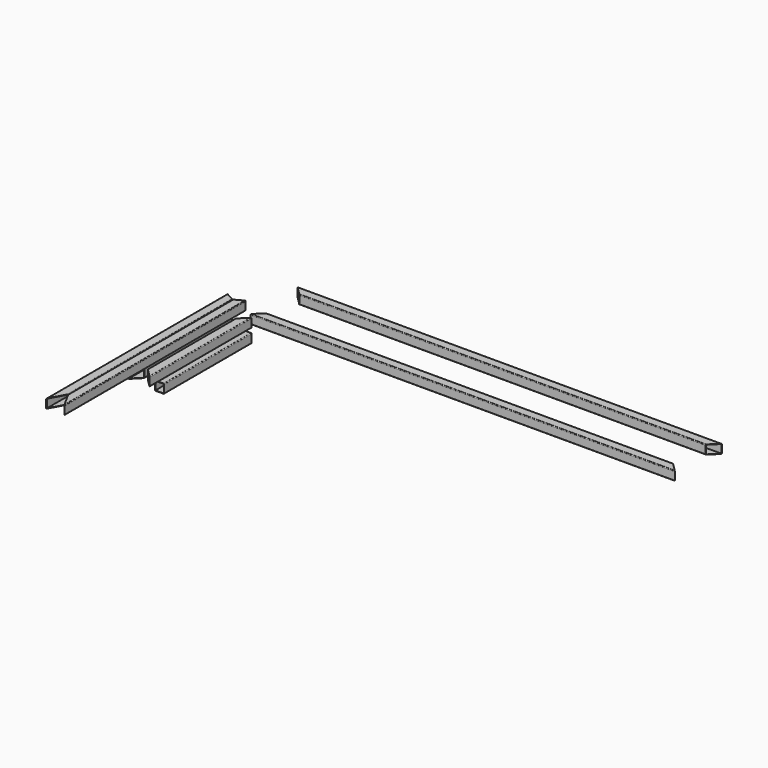
from build123d import *

# Parameters (mm, degrees)
F0_W      = 46
F0_H      = 46
F1_DEPTH  = 700
F2_W      = 46
F2_H      = 46
F3_DEPTH  = 700
F5_DEPTH  = 50.001
F7_DEPTH  = 50.2400823502
F8_W      = 46
F8_H      = 46
F10_DEPTH = 2330
F9_W      = 46
F9_H      = 46
F11_DEPTH = 2330
F13_DEPTH = 50.2400823502
F15_DEPTH = 50.2400823502
F16_W     = 46
F16_H     = 46
F17_DEPTH = 600
F18_W     = 46
F18_H     = 46
F20_DEPTH = 1244.227
F19_W     = 46
F19_H     = 46
F21_DEPTH = 1244.227
F23_DEPTH = 197.0386737416


with BuildPart() as f1:
    # F0 (on Front) → F1 (new body)
    with BuildSketch(Plane.XZ):
        with BuildLine():
            ThreePointArc((25, 21), (23.8284271247, 23.8284271247), (21, 25))
            Line((21, 25), (-21, 25))
            ThreePointArc((-21, 25), (-23.8284271247, 23.8284271247), (-25, 21))
            Line((-25, 21), (-25, -21))
            ThreePointArc((-25, -21), (-23.8284271247, -23.8284271247), (-21, -25))
            Line((-21, -25), (21, -25))
            ThreePointArc((21, -25), (23.8284271247, -23.8284271247), (25, -21))
            Line((25, -21), (25, 21))
        make_face()
        Rectangle(F0_W, F0_H, mode=Mode.SUBTRACT)
    extrude(amount=F1_DEPTH)

    # F4 (on face) → F5 (cut, through all)
    with BuildSketch(Plane.XY.offset(25)):
        Polygon((-25, 0), (-25, -50), (-21, -46), (-21, 0), align=None)
        Polygon((-21, 0), (-21, -46), (21, -4), (21, 0), align=None)
        Polygon((21, 0), (21, -4), (25, 0), align=None)
        Polygon((-25, -650), (-25, -700), (-21, -700), (-21, -654), align=None)
        Polygon((-21, -654), (-21, -700), (21, -700), (21, -696), align=None)
        Polygon((21, -696), (21, -700), (25, -700), align=None)
    extrude(amount=-F5_DEPTH, mode=Mode.SUBTRACT)


with BuildPart() as f3:
    # F2 (on Front) → F3 (new body)
    with BuildSketch(Plane.XZ):
        with BuildLine():
            ThreePointArc((-42.1039521694, 21.2390823502), (-43.2755250447, 24.0675094749), (-46.1039521694, 25.2390823502))
            Line((-46.1039521694, 25.2390823502), (-88.1039521694, 25.2390823502))
            ThreePointArc((-88.1039521694, 25.2390823502), (-90.9323792942, 24.0675094749), (-92.1039521694, 21.2390823502))
            Line((-92.1039521694, 21.2390823502), (-92.1039521694, -20.7609176498))
            ThreePointArc((-92.1039521694, -20.7609176498), (-90.9323792942, -23.5893447746), (-88.1039521694, -24.7609176498))
            Line((-88.1039521694, -24.7609176498), (-46.1039521694, -24.7609176498))
            ThreePointArc((-46.1039521694, -24.7609176498), (-43.2755250447, -23.5893447746), (-42.1039521694, -20.7609176498))
            Line((-42.1039521694, -20.7609176498), (-42.1039521694, 21.2390823502))
        make_face()
        with Locations((-67.1039521694, 0.2390823502)):
            Rectangle(F2_W, F2_H, mode=Mode.SUBTRACT)
    extrude(amount=F3_DEPTH)

    # F6 (on face) → F7 (cut, through all)
    with BuildSketch(Plane.XY.offset(25.2390823502)):
        Polygon((-88.1039521694, 0), (-92.1039521694, 0), (-88.1039521694, -4), align=None)
        Polygon((-46.1039521694, 0), (-88.1039521694, 0), (-88.1039521694, -4), (-46.1039521694, -46), align=None)
        Polygon((-42.1039521694, 0), (-46.1039521694, 0), (-46.1039521694, -46), (-42.1039521694, -50), align=None)
        Polygon((-46.1039521694, -654), (-46.1039521694, -700), (-42.1039521694, -700), (-42.1039521694, -650), align=None)
        Polygon((-88.1039521694, -696), (-88.1039521694, -700), (-46.1039521694, -700), (-46.1039521694, -654), align=None)
        Polygon((-88.1039521694, -696), (-92.1039521694, -700), (-88.1039521694, -700), align=None)
    extrude(amount=-F7_DEPTH, mode=Mode.SUBTRACT)


with BuildPart() as f10:
    # F8 (on Right) → F10 (new body)
    with BuildSketch(Plane.YZ):
        with BuildLine():
            Line((300.6890394688, -25), (342.6890394688, -25))
            ThreePointArc((342.6890394688, -25), (345.5174665935, -23.8284271247), (346.6890394688, -21))
            Line((346.6890394688, -21), (346.6890394688, 21))
            ThreePointArc((346.6890394688, 21), (345.5174665935, 23.8284271247), (342.6890394688, 25))
            Line((342.6890394688, 25), (300.6890394688, 25))
            ThreePointArc((300.6890394688, 25), (297.860612344, 23.8284271247), (296.6890394688, 21))
            Line((296.6890394688, 21), (296.6890394688, -21))
            ThreePointArc((296.6890394688, -21), (297.860612344, -23.8284271247), (300.6890394688, -25))
        make_face()
        with Locations((321.6890394688, 0)):
            Rectangle(F8_W, F8_H, mode=Mode.SUBTRACT)
    extrude(amount=F10_DEPTH)

    # F14 (on face) → F15 (cut, through all)
    with BuildSketch(Plane(origin=(0, 0, -25), x_dir=(1, 0, 0), z_dir=(0, 0, -1))):
        Polygon((2326, -342.6890394688), (2330, -346.6890394688), (2330, -342.6890394688), align=None)
        Polygon((2326, -342.6890394688), (2330, -342.6890394688), (2330, -300.6890394688), (2284, -300.6890394688), align=None)
        Polygon((2284, -300.6890394688), (2330, -300.6890394688), (2330, -296.6890394688), (2280, -296.6890394688), align=None)
        Polygon((0, -296.6890394688), (0, -300.6890394688), (46, -300.6890394688), (50, -296.6890394688), align=None)
        Polygon((0, -300.6890394688), (0, -342.6890394688), (4, -342.6890394688), (46, -300.6890394688), align=None)
        Polygon((0, -342.6890394688), (0, -346.6890394688), (4, -342.6890394688), align=None)
    extrude(amount=-F15_DEPTH, mode=Mode.SUBTRACT)


with BuildPart() as f11:
    # F9 (on Right) → F11 (new body)
    with BuildSketch(Plane.YZ):
        with BuildLine():
            Line((27.1510125101, -25), (69.1510125101, -25))
            ThreePointArc((69.1510125101, -25), (71.9794396348, -23.8284271247), (73.1510125101, -21))
            Line((73.1510125101, -21), (73.1510125101, 21))
            ThreePointArc((73.1510125101, 21), (71.9794396348, 23.8284271247), (69.1510125101, 25))
            Line((69.1510125101, 25), (27.1510125101, 25))
            ThreePointArc((27.1510125101, 25), (24.3225853853, 23.8284271247), (23.1510125101, 21))
            Line((23.1510125101, 21), (23.1510125101, -21))
            ThreePointArc((23.1510125101, -21), (24.3225853853, -23.8284271247), (27.1510125101, -25))
        make_face()
        with Locations((48.1510125101, 0)):
            Rectangle(F9_W, F9_H, mode=Mode.SUBTRACT)
    extrude(amount=F11_DEPTH)

    # F12 (on face) → F13 (cut, through all)
    with BuildSketch(Plane(origin=(0, 0, -25), x_dir=(1, 0, 0), z_dir=(0, 0, -1))):
        Polygon((2280, -73.1510125101), (2330, -73.1510125101), (2330, -69.1510125101), (2284, -69.1510125101), align=None)
        Polygon((2284, -69.1510125101), (2330, -69.1510125101), (2330, -27.1510125101), (2326, -27.1510125101), align=None)
        Polygon((2326, -27.1510125101), (2330, -27.1510125101), (2330, -23.1510125101), align=None)
        Polygon((0, -73.1510125101), (50, -73.1510125101), (46, -69.1510125101), (0, -69.1510125101), align=None)
        Polygon((0, -69.1510125101), (46, -69.1510125101), (4, -27.1510125101), (0, -27.1510125101), align=None)
        Polygon((0, -27.1510125101), (4, -27.1510125101), (0, -23.1510125101), align=None)
    extrude(amount=-F13_DEPTH, mode=Mode.SUBTRACT)


with BuildPart() as f17:
    # F16 (on Front) → F17 (new body)
    with BuildSketch(Plane.XZ):
        with BuildLine():
            ThreePointArc((25.253039645, -53.9547965825), (24.0814667698, -51.1263694577), (21.253039645, -49.9547965825))
            Line((21.253039645, -49.9547965825), (-20.746960355, -49.9547965825))
            ThreePointArc((-20.746960355, -49.9547965825), (-23.5753874797, -51.1263694577), (-24.746960355, -53.9547965825))
            Line((-24.746960355, -53.9547965825), (-24.746960355, -95.9547965825))
            ThreePointArc((-24.746960355, -95.9547965825), (-23.5753874797, -98.7832237072), (-20.746960355, -99.9547965825))
            Line((-20.746960355, -99.9547965825), (21.253039645, -99.9547965825))
            ThreePointArc((21.253039645, -99.9547965825), (24.0814667698, -98.7832237072), (25.253039645, -95.9547965825))
            Line((25.253039645, -95.9547965825), (25.253039645, -53.9547965825))
        make_face()
        with Locations((0.253039645, -74.9547965825)):
            Rectangle(F16_W, F16_H, mode=Mode.SUBTRACT)
    extrude(amount=F17_DEPTH)


with BuildPart() as f20:
    # F18 (on Front) → F20 (new body)
    with BuildSketch(Plane.XZ):
        with BuildLine():
            ThreePointArc((64.6687351167, 93.0828771591), (63.4971622415, 95.9113042839), (60.6687351167, 97.0828771591))
            Line((60.6687351167, 97.0828771591), (18.6687351167, 97.0828771591))
            ThreePointArc((18.6687351167, 97.0828771591), (15.840307992, 95.9113042839), (14.6687351167, 93.0828771591))
            Line((14.6687351167, 93.0828771591), (14.6687351167, 51.0828771591))
            ThreePointArc((14.6687351167, 51.0828771591), (15.840307992, 48.2544500344), (18.6687351167, 47.0828771591))
            Line((18.6687351167, 47.0828771591), (60.6687351167, 47.0828771591))
            ThreePointArc((60.6687351167, 47.0828771591), (63.4971622415, 48.2544500344), (64.6687351167, 51.0828771591))
            Line((64.6687351167, 51.0828771591), (64.6687351167, 93.0828771591))
        make_face()
        with Locations((39.6687351167, 72.0828771591)):
            Rectangle(F18_W, F18_H, mode=Mode.SUBTRACT)
    extrude(amount=F20_DEPTH)


with BuildPart() as f21:
    # F19 (on Front) → F21 (new body)
    with BuildSketch(Plane.XZ):
        with BuildLine():
            ThreePointArc((-7.8771844506, 93.0828771591), (-9.0487573259, 95.9113042839), (-11.8771844506, 97.0828771591))
            Line((-11.8771844506, 97.0828771591), (-53.8771844506, 97.0828771591))
            ThreePointArc((-53.8771844506, 97.0828771591), (-56.7056115754, 95.9113042839), (-57.8771844506, 93.0828771591))
            Line((-57.8771844506, 93.0828771591), (-57.8771844506, 51.0828771591))
            ThreePointArc((-57.8771844506, 51.0828771591), (-56.7056115754, 48.2544500344), (-53.8771844506, 47.0828771591))
            Line((-53.8771844506, 47.0828771591), (-11.8771844506, 47.0828771591))
            ThreePointArc((-11.8771844506, 47.0828771591), (-9.0487573259, 48.2544500344), (-7.8771844506, 51.0828771591))
            Line((-7.8771844506, 51.0828771591), (-7.8771844506, 93.0828771591))
        make_face()
        with Locations((-32.8771844506, 72.0828771591)):
            Rectangle(F19_W, F19_H, mode=Mode.SUBTRACT)
    extrude(amount=F21_DEPTH)

    # F22 (on face) → F23 (cut, through all)
    with BuildSketch(Plane.XY.offset(97.0828771591)):
        Polygon((-57.8771844506, -1154.0246122364), (-57.8771844506, -1244.227), (-53.8771844506, -1244.227), (-53.8771844506, -1161.2408032575), align=None)
        Polygon((-53.8771844506, -1161.2408032575), (-53.8771844506, -1244.227), (-11.8771844506, -1244.227), (-11.8771844506, -1237.0108089789), align=None)
        Polygon((-11.8771844506, -1237.0108089789), (-11.8771844506, -1244.227), (-7.8771844506, -1244.227), align=None)
        Polygon((-57.8771844506, 0), (-57.8771844506, -27.7154525726), (-53.8771844506, -25.4982163668), (-53.8771844506, 0), align=None)
        Polygon((-53.8771844506, 0), (-53.8771844506, -25.4982163668), (-11.8771844506, -2.2172362058), (-11.8771844506, 0), align=None)
        Polygon((-11.8771844506, 0), (-11.8771844506, -2.2172362058), (-7.8771844506, 0), align=None)
    extrude(amount=-F23_DEPTH, mode=Mode.SUBTRACT)


with BuildPart() as f24_1:
    # F24: instance of F21
    add(f21.part.mirror(Plane(origin=(-57.8771844506, -590.8700324045, 72.0828771591), x_dir=(0, -1, 0), z_dir=(-1, 0, 0))))


solid = Compound([f1.part, f3.part, f10.part, f11.part, f17.part, f21.part, f24_1.part])
